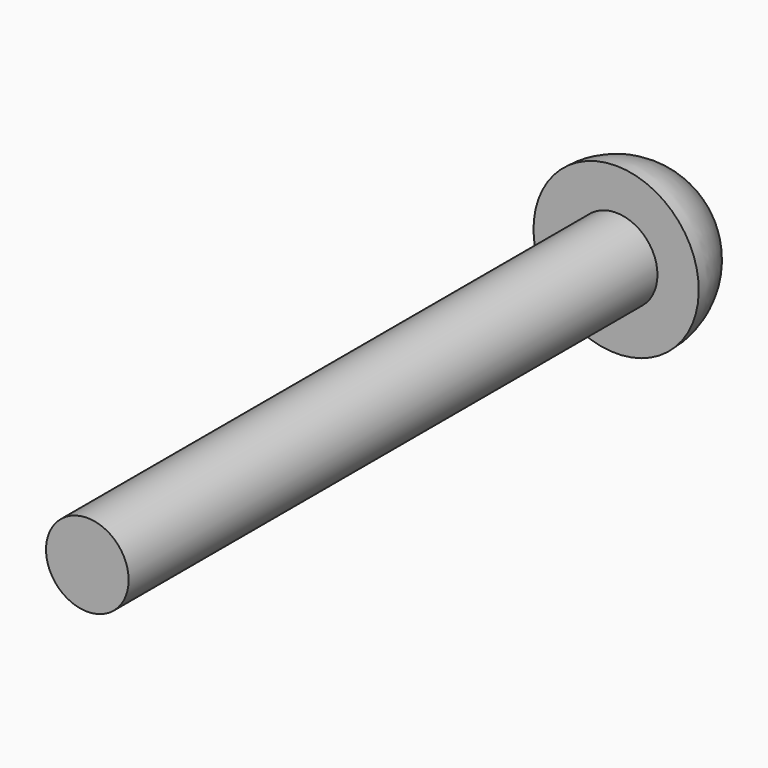
from build123d import *

# Parameters (mm, degrees)
F0_R     = 6.35
F1_DEPTH = 101.6


with BuildPart() as f1:
    # F0 (on Front) → F1 (new body)
    with BuildSketch(Plane.XZ):
        Circle(F0_R)
    extrude(amount=F1_DEPTH)

    # F2 (on Right) → F3 (revolve)
    with BuildSketch(Plane.YZ):
        with BuildLine():
            Line((0, 12.7), (0, 0))
            Line((0, 0), (12.7, 0))
            ThreePointArc((12.7, 0), (8.980256, 8.980256), (0, 12.7))
        make_face()
    revolve(axis=Axis((0, 6.35, 0), (0, 1, 0)))


solid = f1.part
